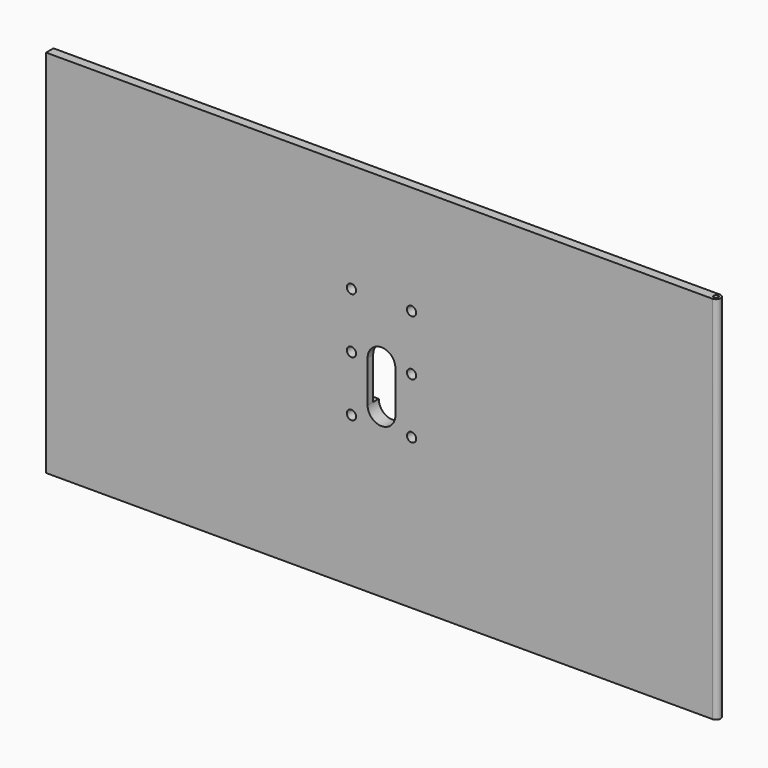
from build123d import *

# Parameters (mm, degrees)
F0_W      = 145
F0_H      = 80
F1_DEPTH  = 2
F2_W      = 141
F2_H      = 76
F3_DEPTH  = 1
F5_DEPTH  = 25
F6_R      = 1
F7_DEPTH  = 25
F8_W      = 1
F8_H      = 2
F9_DEPTH  = 200
F10_R     = 1
F11_DEPTH = 80
F12_R     = 0.5
F13_DEPTH = 300
F15_DEPTH = 1.5


with BuildPart() as f1:
    # F0 (on Front) → F1 (new body)
    with BuildSketch(Plane.XZ):
        Rectangle(F0_W, F0_H)
    extrude(amount=F1_DEPTH)

    # F2 (on face) → F3 (join)
    with BuildSketch(Plane(origin=(0, 0, 0), x_dir=(-1, 0, 0), z_dir=(0, 1, 0))):
        Rectangle(F2_W, F2_H)
    extrude(amount=F3_DEPTH)

    # F4 (on face) → F5 (cut)
    with BuildSketch(Plane.XZ.offset(2)):
        with BuildLine():
            Line((3, -4.5), (3, 4.5))
            ThreePointArc((3, 4.5), (0, 7.5), (-3, 4.5))
            Line((-3, 4.5), (-3, -4.5))
            ThreePointArc((-3, -4.5), (0, -7.5), (3, -4.5))
        make_face()
    extrude(amount=-F5_DEPTH, mode=Mode.SUBTRACT)

    # F6 (on face) → F7 (cut)
    with BuildSketch(Plane.XZ.offset(2)):
        with Locations((-6.5, 16.5)):
            Circle(F6_R)
        with Locations((6.5, 16.5)):
            Circle(F6_R)
        with Locations((6.5, -7.5)):
            Circle(F6_R)
        with Locations((-6.5, -7.5)):
            Circle(F6_R)
        with Locations((-6.5, 4.5)):
            Circle(F6_R)
        with Locations((6.5, 4.5)):
            Circle(F6_R)
    extrude(amount=-F7_DEPTH, mode=Mode.SUBTRACT)

    # F8 (on face) → F9 (cut)
    with BuildSketch(Plane.XY.offset(40)):
        with Locations((72, -1)):
            Rectangle(F8_W, F8_H)
    extrude(amount=-F9_DEPTH, mode=Mode.SUBTRACT)

    # F10 (on face) → F11 (join)
    with BuildSketch(Plane.XY.offset(40)):
        with Locations((71.5, -1)):
            Circle(F10_R)
    extrude(amount=-F11_DEPTH)

    # F12 (on face) → F13 (cut)
    with BuildSketch(Plane.XY.offset(40)):
        with Locations((71.5, -1)):
            Circle(F12_R)
    extrude(amount=-F13_DEPTH, mode=Mode.SUBTRACT)

    # F14 (on face) → F15 (cut)
    with BuildSketch(Plane(origin=(0, 1, 0), x_dir=(-1, 0, 0), z_dir=(0, 1, 0))):
        with BuildLine():
            Line((-4.5, -4.5), (-3, -4.5))
            Line((-3, -4.5), (3, -4.5))
            Line((3, -4.5), (4.5, -4.5))
            Line((4.5, -4.5), (4.5, 17.037205))
            ThreePointArc((4.5, 17.037205), (0, 21.537205), (-4.5, 17.037205))
            Line((-4.5, 17.037205), (-4.5, -4.5))
        make_face()
    extrude(amount=-F15_DEPTH, mode=Mode.SUBTRACT)


solid = f1.part
